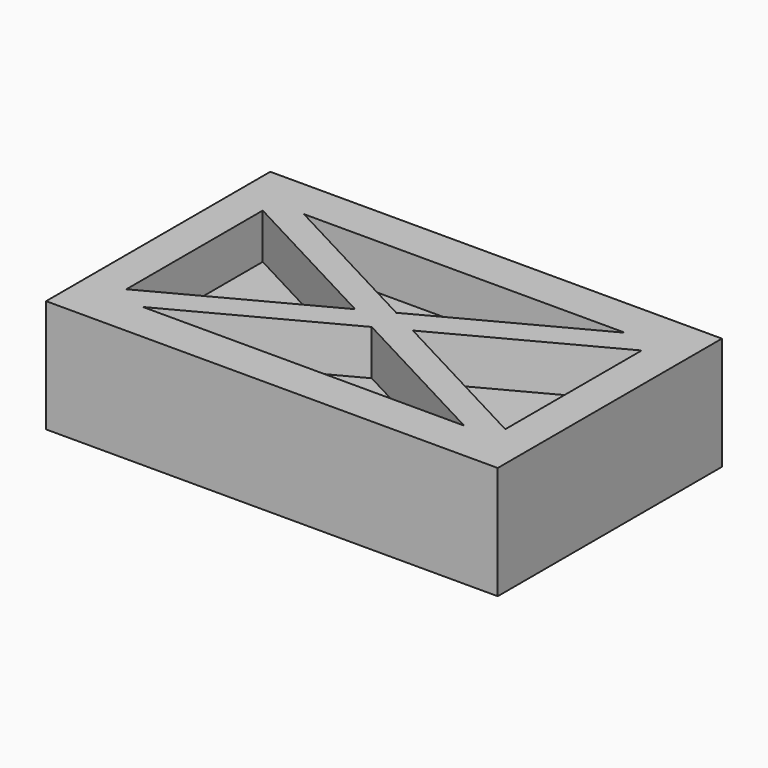
from build123d import *

# Parameters (mm, degrees)
F0_W     = 25.4
F0_H     = 15.759564
F1_DEPTH = 6.35
F2_DEPTH = 3.81


with BuildPart() as f1:
    # F0 (on Top) → F1 (new body)
    with BuildSketch(Plane.XY):
        Rectangle(F0_W, F0_H)
        Polygon((-10.654746, -4.793949), (-10.654746, 4.793949), (-1.625014, 0), align=None, mode=Mode.SUBTRACT)
        Polygon((9.029732, -5.65668), (-9.029732, -5.65668), (0, -0.862732), align=None, mode=Mode.SUBTRACT)
        Polygon((0, 0.862732), (-9.029732, 5.65668), (9.029732, 5.65668), align=None, mode=Mode.SUBTRACT)
        Polygon((1.625014, 0), (10.654746, 4.793949), (10.654746, -4.793949), align=None, mode=Mode.SUBTRACT)
    extrude(amount=F1_DEPTH)

    # F0 (on Top) → F2 (join)
    with BuildSketch(Plane.XY):
        Polygon((9.029732, 5.65668), (-9.029732, 5.65668), (0, 0.862732), align=None)
        Polygon((-1.625014, 0), (-10.654746, 4.793949), (-10.654746, -4.793949), align=None)
        Polygon((0, -0.862732), (-9.029732, -5.65668), (9.029732, -5.65668), align=None)
        Polygon((10.654746, -4.793949), (10.654746, 4.793949), (1.625014, 0), align=None)
    extrude(amount=F2_DEPTH)


solid = f1.part
